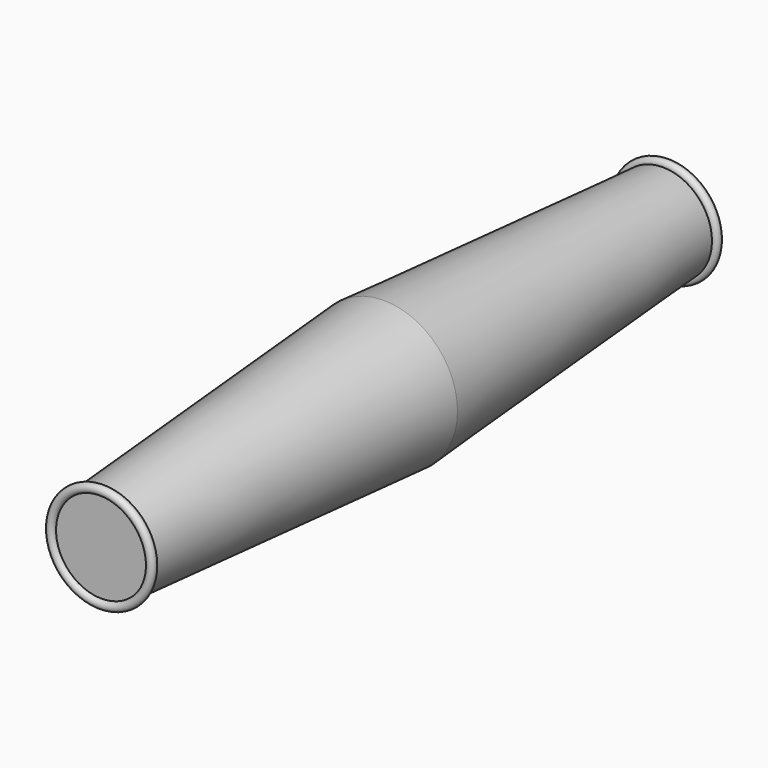
from build123d import *

# Parameters (mm, degrees)
F0_R     = 12.5
F1_DEPTH = 60
F1_TAPER = 4
F3_R     = 0.75
F6_R     = 0.75


with BuildPart() as f1:
    # F0 (on Front) → F1 (new body, symmetric)
    with BuildSketch(Plane.XZ):
        Circle(F0_R)
    extrude(amount=F1_DEPTH, both=True, taper=F1_TAPER)

    # F4: sweep along a path in F2
    with BuildLine(Plane.XZ.offset(60)) as f4_path:
        CenterArc((0, 0), 8, 0, 360)
    # F3 (on Right) → F4 (sweep)
    with BuildSketch(Plane.YZ):
        with Locations((-60, 8.5)):
            Circle(F3_R)
    sweep(path=f4_path.line)

    # F7: sweep along a path in F5
    with BuildLine(Plane(origin=(0, 60, 0), x_dir=(-1, 0, 0), z_dir=(0, 1, 0))) as f7_path:
        CenterArc((0, 0), 8, 0, 360)
    # F6 (on Right) → F7 (sweep)
    with BuildSketch(Plane.YZ):
        with Locations((60, 8.5)):
            Circle(F6_R)
    sweep(path=f7_path.line)


solid = f1.part
